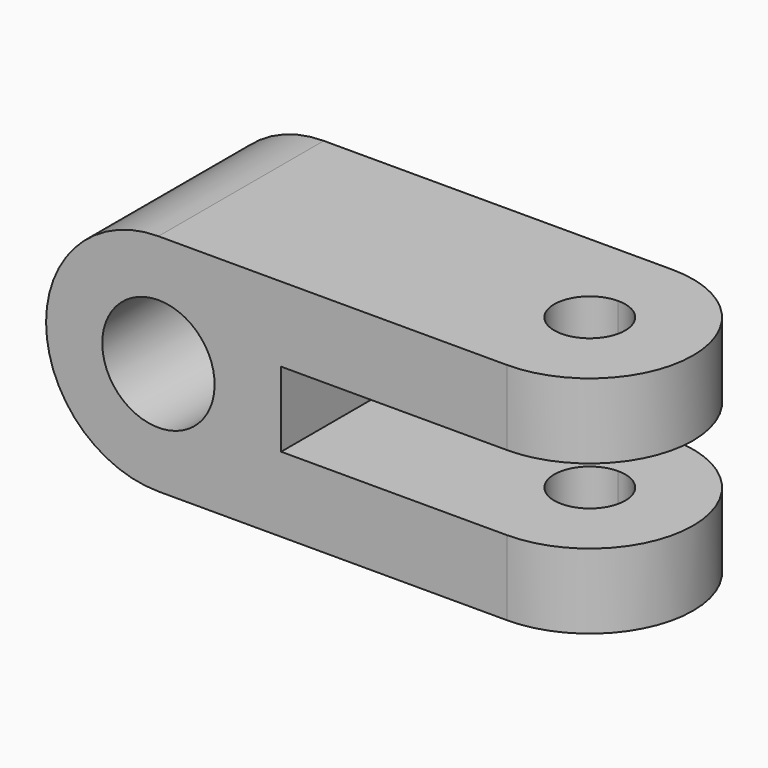
from build123d import *

# Parameters (mm, degrees)
F3_DEPTH = 44.196
F1_W     = 64.77
F1_H     = 14.732
F2_R     = 11.049
F4_DEPTH = 25.4
F2_R_2   = 22.098
F5_DEPTH = 20.32


with BuildPart() as f3:
    # F0 (on Top) → F3 (new body)
    with BuildSketch(Plane.XY):
        with BuildLine():
            Line((32.224336, 20.32), (-36.355664, 20.32))
            Line((-36.355664, 20.32), (-36.355664, -20.32))
            Line((-36.355664, -20.32), (32.224336, -20.32))
            Line((32.224336, -20.32), (32.224336, -6.985))
            ThreePointArc((32.224336, -6.985), (25.239336, 0), (32.224336, 6.985))
            Line((32.224336, 6.985), (32.224336, 20.32))
        make_face()
        with BuildLine():
            ThreePointArc((32.224336, -20.32), (52.544336, 0), (32.224336, 20.32))
            Line((32.224336, 20.32), (32.224336, 6.985))
            ThreePointArc((32.224336, 6.985), (37.163477, 4.939141), (39.209336, 0))
            ThreePointArc((39.209336, 0), (37.163477, -4.939141), (32.224336, -6.985))
            Line((32.224336, -6.985), (32.224336, -20.32))
        make_face()
    extrude(amount=F3_DEPTH)

    # F1 (on Front) + F2 (on Front) → F4 (cut, symmetric)
    with BuildSketch(Plane.XZ):
        with Locations((20.159336, 22.098)):
            Rectangle(F1_W, F1_H)
    with BuildSketch(Plane.XZ):
        with Locations((-36.355664, 22.098)):
            Circle(F2_R)
    extrude(amount=F4_DEPTH, both=True, mode=Mode.SUBTRACT)

    # F2 (on Front) → F5 (join, symmetric)
    with BuildSketch(Plane.XZ):
        with Locations((-36.355664, 22.098)):
            Circle(F2_R_2)
        with Locations((-36.355664, 22.098)):
            Circle(F2_R, mode=Mode.SUBTRACT)
    extrude(amount=F5_DEPTH, both=True)


solid = f3.part
